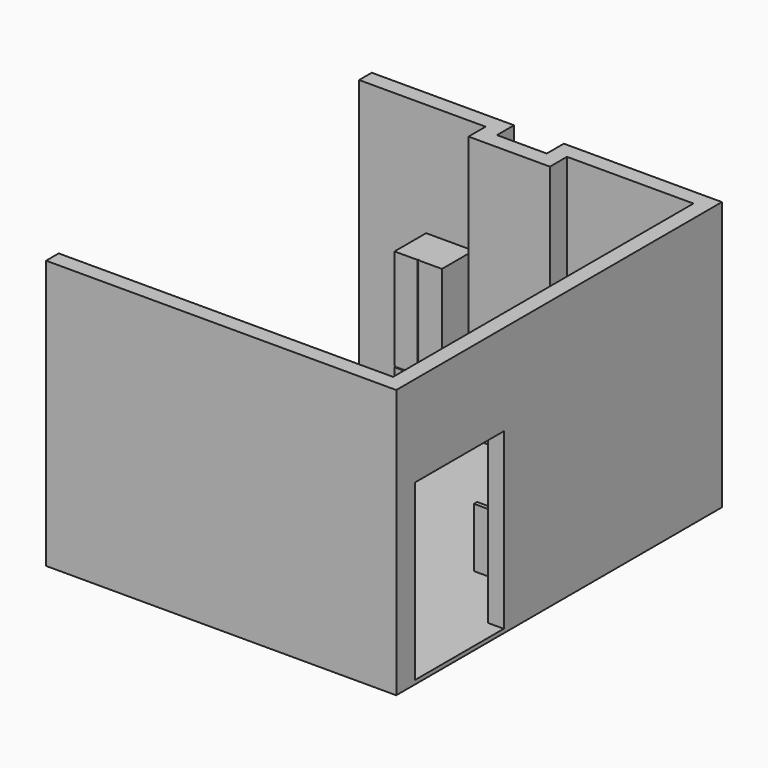
from build123d import *

# Parameters (mm, degrees)
F1_DEPTH  = 340
F2_DEPTH  = 5
F3_W      = 140
F3_H      = 220
F4_DEPTH  = 20
F5_W      = 80
F5_H      = 150
F6_DEPTH  = 75
F7_W      = 80
F7_H      = 140
F8_DEPTH  = 50
F9_W      = 90
F9_H      = 50
F10_DEPTH = 50
F11_W     = 60
F11_H     = 50
F12_DEPTH = 192
F13_W     = 2
F13_H     = 127
F13_W_2   = 60
F13_H_2   = 2
F14_DEPTH = 1
F15_W     = 195
F15_H     = 80
F16_DEPTH = 5
F17_R     = 5
F18_DEPTH = 40
F19_W     = 55
F19_H     = 77
F20_DEPTH = 8


with BuildPart() as f1:
    # F0 (on Top) → F1 (new body)
    with BuildSketch(Plane.XY):
        Polygon((-209.625, 350.22819), (-209.625, 330.2282), (-49.625, 330.2282), (-49.625, 303.2282), (53.375, 303.2282), (53.375, 330.2282), (213.375, 330.2282), (213.375, -144.7718), (-209.625, -144.7718), (-209.625, -164.771791), (233.374991, -164.771791), (233.374991, 350.22819), (33.375009, 350.22819), (33.375009, 323.22819), (-29.625009, 323.22819), (-29.625009, 350.22819), align=None)
    extrude(amount=F1_DEPTH)

    # F0 (on Top) → F2 (join)
    with BuildSketch(Plane.XY):
        Polygon((-49.625, 330.2282), (-209.625, 330.2282), (-209.625, -144.7718), (213.375, -144.7718), (213.375, 330.2282), (53.375, 330.2282), (53.375, 303.2282), (-49.625, 303.2282), align=None)
    extrude(amount=F2_DEPTH)

    # F3 (on face) → F4 (cut)
    with BuildSketch(Plane.YZ.offset(233.374991)):
        with Locations((-64.7718, 115)):
            Rectangle(F3_W, F3_H)
    extrude(amount=-F4_DEPTH, mode=Mode.SUBTRACT)


with BuildPart() as f6:
    # F5 (on face) → F6 (new body)
    with BuildSketch(Plane.XY.offset(5)):
        with Locations((173.375, 158.132865)):
            Rectangle(F5_W, F5_H)
    extrude(amount=F6_DEPTH)

    # F7 (on face) → F8 (cut)
    with BuildSketch(Plane.XY.offset(80)):
        with Locations((173.375, 158.132865)):
            Rectangle(F7_W, F7_H)
    extrude(amount=-F8_DEPTH, mode=Mode.SUBTRACT)


with BuildPart() as f10:
    # F9 (on face) → F10 (new body)
    with BuildSketch(Plane.XY.offset(5)):
        with Locations((151.917549, 305.2282)):
            Rectangle(F9_W, F9_H)
    extrude(amount=F10_DEPTH)


with BuildPart() as f12:
    # F11 (on face) → F12 (new body)
    with BuildSketch(Plane.XY.offset(5)):
        with Locations((-94.835742, 305.2282)):
            Rectangle(F11_W, F11_H)
    extrude(amount=F12_DEPTH)

    # F13 (on face) → F14 (cut)
    with BuildSketch(Plane.XZ.offset(-280.2282)):
        with Locations((-94.835742, 133.5)):
            Rectangle(F13_W, F13_H)
        Polygon((-124.835742, 70), (-124.835742, 68), (-64.835742, 68), (-64.835742, 70), (-93.835742, 70), (-95.835742, 70), align=None)
        with Locations((-94.835742, 53)):
            Rectangle(F13_W_2, F13_H_2)
        with Locations((-94.835742, 37)):
            Rectangle(F13_W_2, F13_H_2)
    extrude(amount=-F14_DEPTH, mode=Mode.SUBTRACT)


with BuildPart() as f16:
    # F15 (on face) → F16 (new body)
    with BuildSketch(Plane.XY.offset(5)):
        with Locations((-71.763179, -78.557897)):
            Rectangle(F15_W, F15_H)
    extrude(amount=F16_DEPTH)


with BuildPart() as f18:
    # F17 (on face) → F18 (new body)
    with BuildSketch(Plane.XY.offset(5)):
        with Locations((-167.650908, 246.712744)):
            Circle(F17_R)
        with Locations((-167.650908, 179.712744)):
            Circle(F17_R)
        with Locations((-122.650908, 246.712744)):
            Circle(F17_R)
        with Locations((-122.650908, 179.712744)):
            Circle(F17_R)
    extrude(amount=F18_DEPTH)

    # F19 (on face) → F20 (join)
    with BuildSketch(Plane.XY.offset(45)):
        with Locations((-145.150908, 213.212744)):
            Rectangle(F19_W, F19_H)
    extrude(amount=F20_DEPTH)


solid = Compound([f1.part, f6.part, f10.part, f12.part, f16.part, f18.part])
